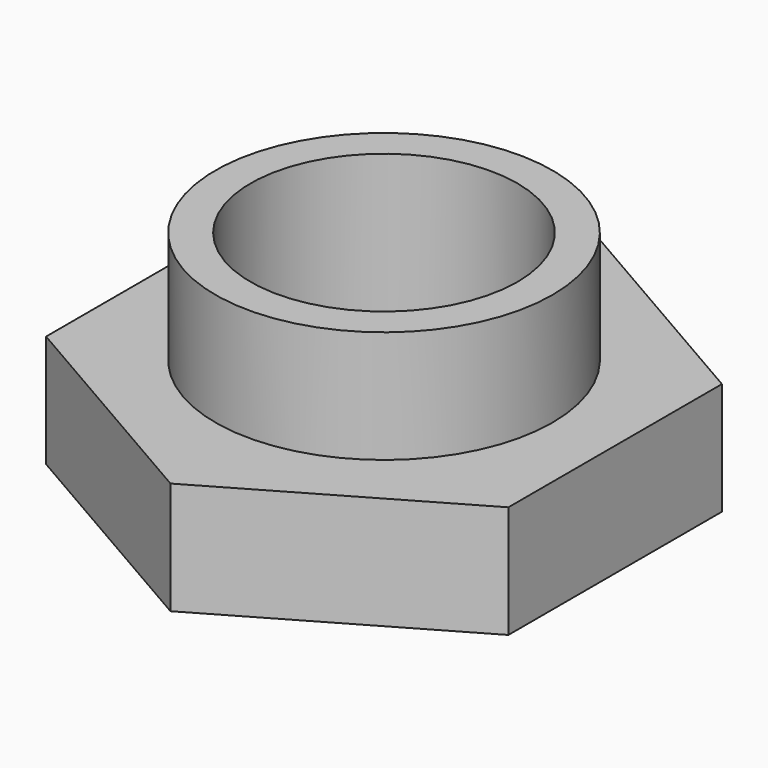
from build123d import *

# Parameters (mm, degrees)
SKETCH003_R  = 4.75
PAD002_DEPTH = 8
PAD001_DEPTH = 4
SKETCH_R     = 6
PAD_DEPTH    = 4


with BuildPart() as trou:
    # Sketch003 → Pad002 (new body)
    with BuildSketch(Plane.XY):
        Circle(SKETCH003_R)
    extrude(amount=PAD002_DEPTH)


with BuildPart() as cylindre:
    # Sketch002 → Pad001 (new body)
    with BuildSketch(Plane.XY):
        Polygon((8.227241, 4.75), (0, 9.5), (-8.227241, 4.75), (-8.227241, -4.75), (0, -9.5), (8.227241, -4.75), align=None)
    extrude(amount=PAD001_DEPTH)


with BuildPart() as cut:
    # Sketch → Pad (new body)
    with BuildSketch(Plane.XY.offset(4)):
        Circle(SKETCH_R)
    extrude(amount=PAD_DEPTH)

    # Fusion: union cylindre
    add(cylindre.part)

    # Cut: cut trou
    add(trou.part, mode=Mode.SUBTRACT)


solid = cut.part
